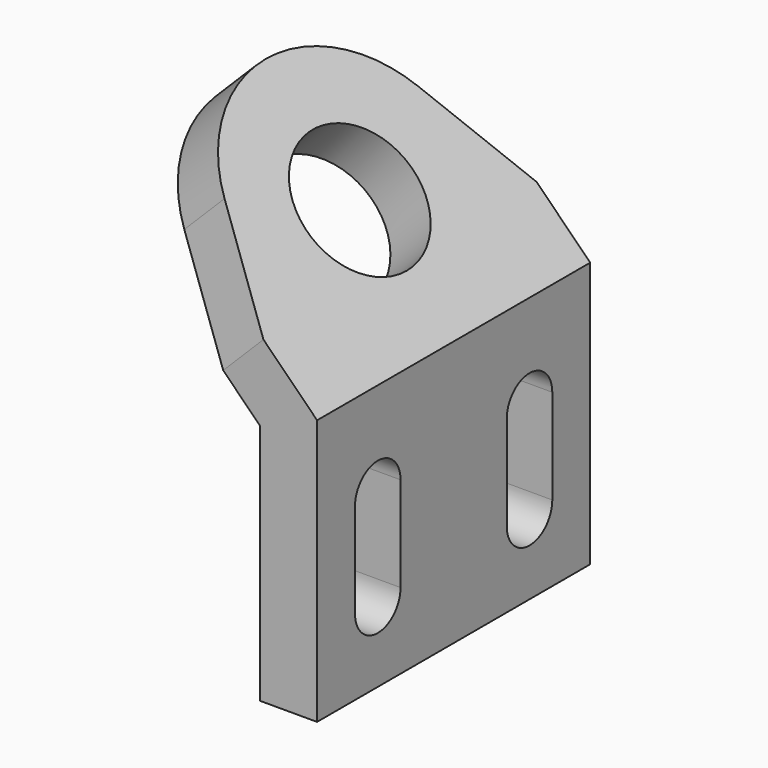
from build123d import *

# Parameters (mm, degrees)
F1_DEPTH = 72
F2_R     = 14
F3_DEPTH = 25
F6_DEPTH = 25
F8_DEPTH = 25


with BuildPart() as f1:
    # F0 (on Front) → F1 (new body)
    with BuildSketch(Plane.XZ):
        Polygon((26.0169860537, -41.8088145156), (26.0169860537, 14.1911854844), (-13.5809936927, 53.7891652309), (-22.066275067, 45.3038838566), (14.0169860537, 9.2206227359), (14.0169860537, -41.8088145156), align=None)
    extrude(amount=F1_DEPTH)

    # F2 (on face) → F3 (cut)
    with BuildSketch(Plane(origin=(20.1040857691, 0, 20.1040857691), x_dir=(0.7071067812, 0, -0.7071067812), z_dir=(0.7071067812, 0, 0.7071067812))):
        with Locations((-19.6378962245, -36)):
            Circle(F2_R)
    extrude(amount=-F3_DEPTH, mode=Mode.SUBTRACT)

    # F5 (on face) + F4 (on face) → F6 (cut)
    with BuildSketch(Plane(origin=(20.1040857691, 0, 20.1040857691), x_dir=(0.7071067812, 0, -0.7071067812), z_dir=(0.7071067812, 0, 0.7071067812))):
        Polygon((-47.6378962245, -17.821869662), (-31.0333128979, -10.4237516661), (-7.6378962245, 0), (-47.6378962245, 0), align=None)
        Polygon((-47.6378962245, -72), (-7.6378962245, -72), (-31.0333098725, -61.5762496819), (-47.6378962245, -54.178130338), align=None)
        with BuildLine():
            Line((-47.6378962245, -54.178130338), (-31.0333098725, -61.5762496819))
            ThreePointArc((-31.0333098725, -61.5762496819), (-43.1226953736, -51.2467770013), (-47.6378962245, -36))
            Line((-47.6378962245, -36), (-47.6378962245, -54.178130338))
        make_face()
    with BuildSketch(Plane(origin=(20.1040857691, 0, 20.1040857691), x_dir=(0.7071067812, 0, -0.7071067812), z_dir=(0.7071067812, 0, 0.7071067812))):
        with BuildLine():
            Line((-31.0333129323, -10.4237516814), (-88.4374995943, -36))
            Line((-88.4374995943, -36), (-31.0333096209, -61.576249794))
            ThreePointArc((-31.0333096209, -61.576249794), (-43.1226952986, -51.2467771168), (-47.6378962245, -36))
            ThreePointArc((-47.6378962245, -36), (-43.1226962856, -20.7532244035), (-31.0333129323, -10.4237516814))
        make_face()
    extrude(amount=-F6_DEPTH, mode=Mode.SUBTRACT)

    # F7 (on face) → F8 (cut)
    with BuildSketch(Plane.YZ.offset(26.0169860537)):
        with BuildLine():
            ThreePointArc((-62, -25.8088145156), (-56, -31.8088145156), (-50, -25.8088145156))
            ThreePointArc((-50, -25.8088145156), (-56, -19.8088145156), (-62, -25.8088145156))
        make_face()
        with BuildLine():
            ThreePointArc((-62, -25.8088145156), (-56, -19.8088145156), (-50, -25.8088145156))
            Line((-50, -25.8088145156), (-50, -5.8088145156))
            ThreePointArc((-50, -5.8088145156), (-56, -11.8088145156), (-62, -5.8088145156))
            Line((-62, -5.8088145156), (-62, -25.8088145156))
        make_face()
        with BuildLine():
            ThreePointArc((-62, -5.8088145156), (-56, -11.8088145156), (-50, -5.8088145156))
            ThreePointArc((-50, -5.8088145156), (-56, 0.1911854844), (-62, -5.8088145156))
        make_face()
        with BuildLine():
            Line((-22, -25.8088145156), (-10, -25.8088145156))
            ThreePointArc((-10, -25.8088145156), (-16, -19.8088145156), (-22, -25.8088145156))
        make_face()
        with BuildLine():
            ThreePointArc((-22, -25.8088145156), (-16, -31.8088145156), (-10, -25.8088145156))
            Line((-10, -25.8088145156), (-22, -25.8088145156))
        make_face()
        with BuildLine():
            ThreePointArc((-22, -25.8088145156), (-16, -19.8088145156), (-10, -25.8088145156))
            Line((-10, -25.8088145156), (-10, -5.8088145156))
            ThreePointArc((-10, -5.8088145156), (-16, -11.8088145156), (-22, -5.8088145156))
            Line((-22, -5.8088145156), (-22, -25.8088145156))
        make_face()
        with BuildLine():
            ThreePointArc((-22, -5.8088145156), (-16, -11.8088145156), (-10, -5.8088145156))
            ThreePointArc((-10, -5.8088145156), (-16, 0.1911854844), (-22, -5.8088145156))
        make_face()
    extrude(amount=-F8_DEPTH, mode=Mode.SUBTRACT)


solid = f1.part
